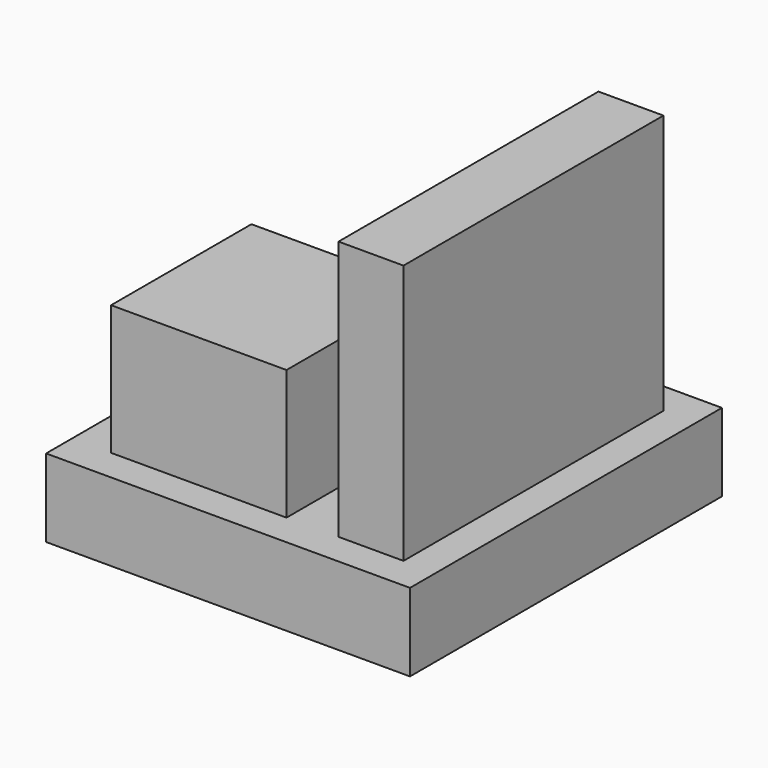
from build123d import *

# Parameters (mm, degrees)
SKETCH_W     = 14
SKETCH_H     = 15
PAD_DEPTH    = 3
SKETCH001_W  = 2.5
SKETCH001_H  = 12.5
PAD001_DEPTH = 10
SKETCH002_W  = 6.75
SKETCH002_H  = 6.75
PAD002_DEPTH = 5


with BuildPart() as part:
    # Sketch → Pad (new body)
    with BuildSketch(Plane.XY):
        with Locations((7, 7.5)):
            Rectangle(SKETCH_W, SKETCH_H)
    extrude(amount=PAD_DEPTH)

    # Sketch001 (on Face6 of Pad) → Pad001 (join)
    with BuildSketch(Plane.XY.offset(3)):
        with Locations((11.5, 7.5)):
            Rectangle(SKETCH001_W, SKETCH001_H)
    extrude(amount=PAD001_DEPTH)

    # Sketch002 (on Face5 of Pad001) → Pad002 (join)
    with BuildSketch(Plane.XY.offset(3)):
        with Locations((4.875, 4.625)):
            Rectangle(SKETCH002_W, SKETCH002_H)
    extrude(amount=PAD002_DEPTH)


solid = part.part
